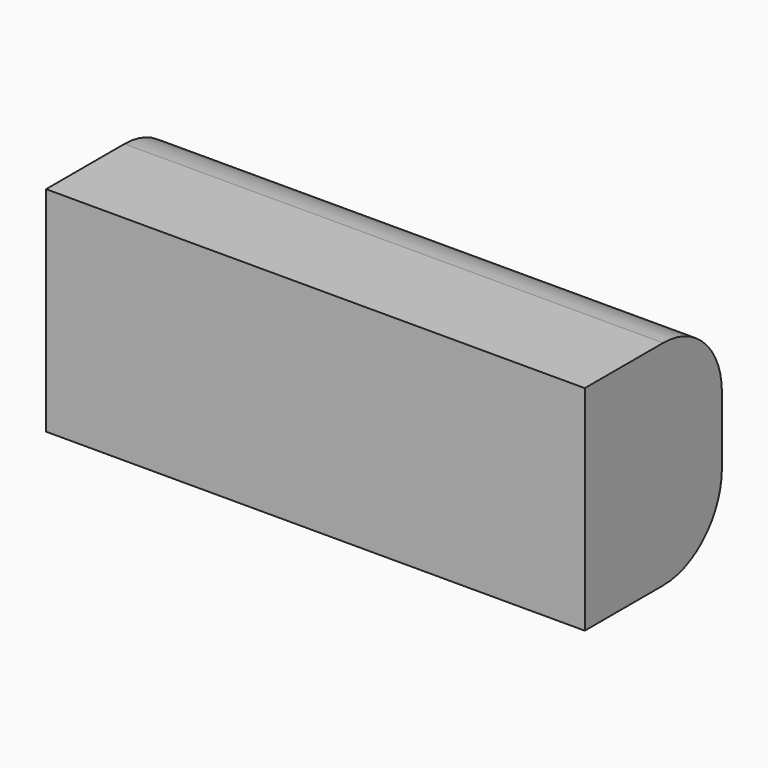
from build123d import *

# Parameters (mm, degrees)
F0_W     = 55.88
F0_H     = 22.1488
F1_DEPTH = 8.89
F2_R     = 7.62


with BuildPart() as f1:
    # F0 (on Front) → F1 (new body, symmetric)
    with BuildSketch(Plane.XZ):
        Rectangle(F0_W, F0_H)
    extrude(amount=F1_DEPTH, both=True)

    # F2
    f2_edges = [f1.edges().sort_by_distance(p)[0] for p in [
        (0, 8.89, 11.0744),
        (0, 8.89, -11.0744),
    ]]
    fillet(f2_edges, radius=F2_R)


solid = f1.part
